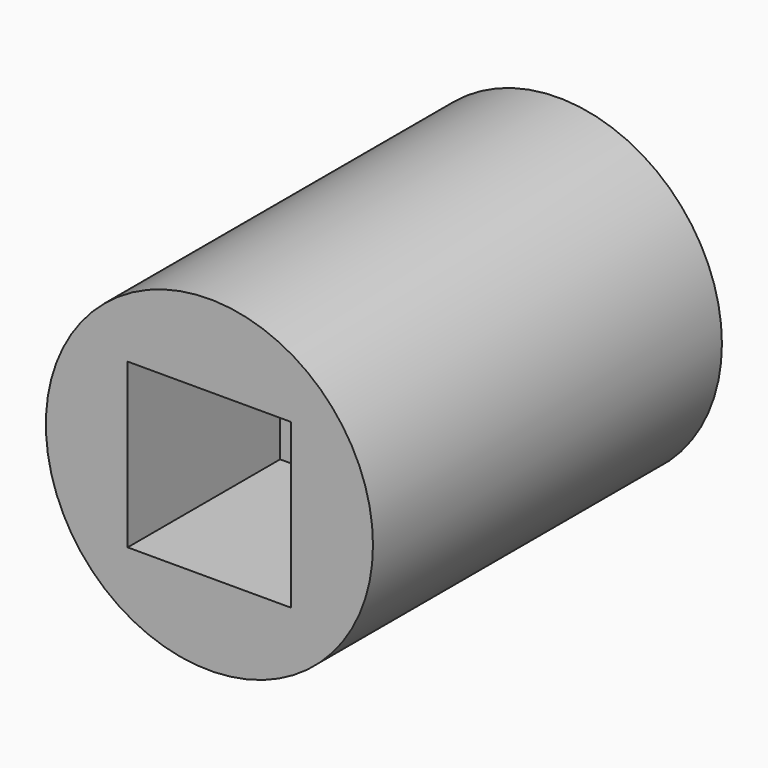
from build123d import *

# Parameters (mm, degrees)
F0_R     = 9.525
F1_DEPTH = 25.4
F3_DEPTH = 25.401
F4_DEPTH = 11.0998
F6_DEPTH = 9.525


with BuildPart() as f1:
    # F0 (on Front) → F1 (new body)
    with BuildSketch(Plane.XZ):
        Circle(F0_R)
    extrude(amount=F1_DEPTH)

    # F2 (on face) → F3 (cut, through all)
    with BuildSketch(Plane.XZ.offset(25.4)):
        with BuildLine():
            ThreePointArc((-4.7625, 0), (-3.367596, -3.367596), (0, -4.7625))
            ThreePointArc((0, -4.7625), (3.367596, -3.367596), (4.7625, 0))
            ThreePointArc((4.7625, 0), (3.367596, 3.367596), (0, 4.7625))
            ThreePointArc((0, 4.7625), (-3.367596, 3.367596), (-4.7625, 0))
        make_face()
    extrude(amount=-F3_DEPTH, mode=Mode.SUBTRACT)

    # F2 (on face) → F4 (cut)
    with BuildSketch(Plane.XZ.offset(25.4)):
        with BuildLine():
            Line((0, -4.7625), (4.7625, -4.7625))
            Line((4.7625, -4.7625), (4.7625, 0))
            ThreePointArc((4.7625, 0), (3.367596, -3.367596), (0, -4.7625))
        make_face()
        with BuildLine():
            Line((-4.7625, -4.7625), (0, -4.7625))
            ThreePointArc((0, -4.7625), (-3.367596, -3.367596), (-4.7625, 0))
            Line((-4.7625, 0), (-4.7625, -4.7625))
        make_face()
        with BuildLine():
            ThreePointArc((0, 4.7625), (3.367596, 3.367596), (4.7625, 0))
            Line((4.7625, 0), (4.7625, 4.7625))
            Line((4.7625, 4.7625), (0, 4.7625))
        make_face()
        with BuildLine():
            Line((-4.7625, 4.7625), (-4.7625, 0))
            ThreePointArc((-4.7625, 0), (-3.367596, 3.367596), (0, 4.7625))
            Line((0, 4.7625), (-4.7625, 4.7625))
        make_face()
    extrude(amount=-F4_DEPTH, mode=Mode.SUBTRACT)

    # F5 (on face) → F6 (cut)
    with BuildSketch(Plane(origin=(0, 0, 0), x_dir=(-1, 0, 0), z_dir=(0, 1, 0))):
        Polygon((7.3025, -0.000211), (3.651432, 6.324045), (-3.651068, 6.324256), (-7.3025, 0.000211), (-3.651432, -6.324045), (3.651068, -6.324256), align=None)
    extrude(amount=-F6_DEPTH, mode=Mode.SUBTRACT)


solid = f1.part
